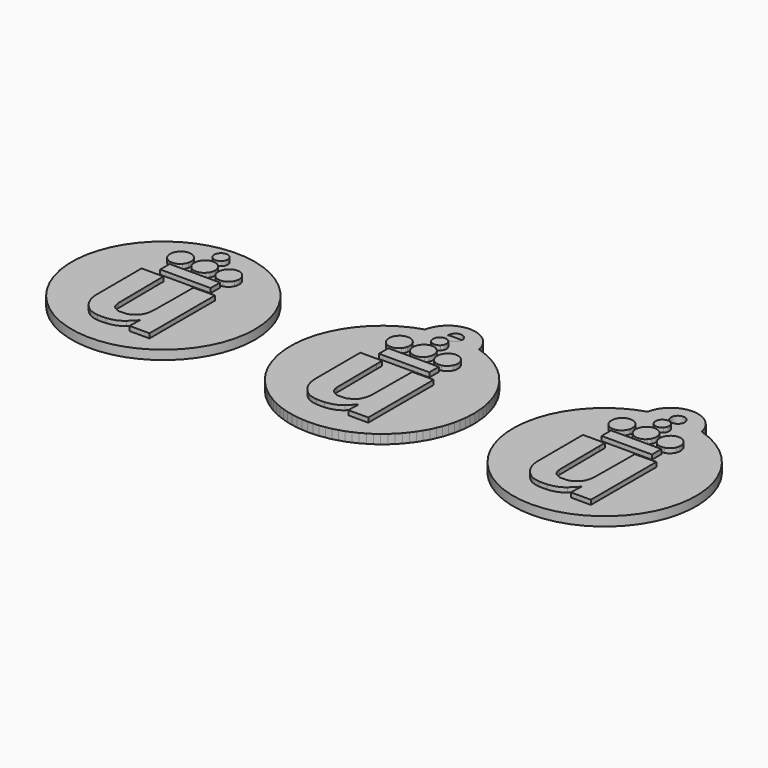
from build123d import *

# Parameters (mm, degrees)
EXTRUDE001_DEPTH  = 1
EXTRUDE_DEPTH     = 1
EXTRUDE002_DEPTH  = 1
EXTRUDE003_DEPTH  = 1
EXTRUDE004_DEPTH  = 1
EXTRUDE005_DEPTH  = 1
CYLINDER_R        = 20
CYLINDER_DEPTH    = 2
CYLINDER001_R     = 1.5
CYLINDER001_DEPTH = 10
CYLINDER002_R     = 6
CYLINDER002_DEPTH = 2


with BuildPart() as letter_u:
    # path4159 → Extrude001 (new body)
    with BuildSketch(Plane(origin=(0.035342, -5.02717, 2), x_dir=(0, -1, 0), z_dir=(0, 0, -1))):
        with BuildLine():
            add(Edge.make_bspline(
                [(9.021922, 3.17561), (8.947974, 3.86656), (8.762365, 4.544102), (8.512805, 5.034102)],
                knots=[0, 0, 0, 0, 1, 1, 1, 1], degree=3))
            add(Edge.make_bspline(
                [(8.512805, 5.034102), (8.092564, 5.859241), (6.965425, 6.898745), (5.985857, 7.364589)],
                knots=[0, 0, 0, 0, 1, 1, 1, 1], degree=3))
            add(Edge.make_bspline(
                [(5.985857, 7.364589), (5.21882, 7.729361), (4.558242, 7.892728), (3.522088, 7.973904)],
                knots=[0, 0, 0, 0, 1, 1, 1, 1], degree=3))
            add(Edge.make_bspline(
                [(3.522088, 7.973904), (3.20079, 7.99905), (0.947657, 8.012323), (-3.013075, 8.012323)],
                knots=[0, 0, 0, 0, 1, 1, 1, 1], degree=3))
            add(Edge.make_bspline(
                [(-3.013075, 8.012323), (-9.057877, 8.012323)],
                knots=[0, 0, 21.41859, 21.41859], degree=1))
            add(Edge.make_bspline(
                [(-9.057877, 8.012323), (-9.057877, 5.623004)],
                knots=[0, 0, 8.46609, 8.46609], degree=1))
            add(Edge.make_bspline(
                [(-9.057877, 5.623004), (-9.057877, 3.233688)],
                knots=[0, 0, 8.46608, 8.46608], degree=1))
            add(Edge.make_bspline(
                [(-9.057877, 3.233688), (-7.53574, 3.230697)],
                knots=[0, 0, 5.39341, 5.39341], degree=1))
            add(Edge.make_bspline(
                [(-7.53574, 3.230697), (-3.068566, 3.222089), (3.025022, 3.163912), (3.386627, 3.126399)],
                knots=[0, 0, 0, 0, 1, 1, 1, 1], degree=3))
            add(Edge.make_bspline(
                [(3.386627, 3.126399), (4.0522, 3.057342), (4.609028, 2.887867), (4.856658, 2.67898)],
                knots=[0, 0, 0, 0, 1, 1, 1, 1], degree=3))
            add(Edge.make_bspline(
                [(4.856658, 2.67898), (5.089551, 2.482523), (5.370593, 2.047344), (5.537381, 1.624903)],
                knots=[0, 0, 0, 0, 1, 1, 1, 1], degree=3))
            add(Edge.make_bspline(
                [(5.537381, 1.624903), (5.689535, 1.239534)],
                knots=[0, 0, 1.468059, 1.468059], degree=1))
            add(Edge.make_bspline(
                [(5.689535, 1.239534), (5.685725, 0.431117)],
                knots=[0, 0, 2.864502, 2.864502], degree=1))
            add(Edge.make_bspline(
                [(5.685725, 0.431117), (5.681238, -0.517531), (5.655194, -0.653638), (5.374959, -1.191268)],
                knots=[0, 0, 0, 0, 1, 1, 1, 1], degree=3))
            add(Edge.make_bspline(
                [(5.374959, -1.191268), (4.902019, -2.098633), (4.491445, -2.514676), (3.757241, -2.830545)],
                knots=[0, 0, 0, 0, 1, 1, 1, 1], degree=3))
            add(Edge.make_bspline(
                [(3.757241, -2.830545), (3.068012, -3.127059), (2.634567, -3.217585), (1.660881, -3.26837)],
                knots=[0, 0, 0, 0, 1, 1, 1, 1], degree=3))
            add(Edge.make_bspline(
                [(1.660881, -3.26837), (1.309971, -3.286658), (-1.232182, -3.311153), (-3.988348, -3.322766)],
                knots=[0, 0, 0, 0, 1, 1, 1, 1], degree=3))
            add(Edge.make_bspline(
                [(-3.988348, -3.322766), (-6.744507, -3.334365), (-9.002714, -3.347404), (-9.006581, -3.351663)],
                knots=[0, 0, 0, 0, 1, 1, 1, 1], degree=3))
            add(Edge.make_bspline(
                [(-9.006581, -3.351663), (-9.010419, -3.355896), (-9.025687, -4.406338), (-9.040399, -5.68588)],
                knots=[0, 0, 0, 0, 1, 1, 1, 1], degree=3))
            add(Edge.make_bspline(
                [(-9.040399, -5.68588), (-9.067182, -8.012323)],
                knots=[0, 0, 8.243846, 8.243846], degree=1))
            add(Edge.make_bspline(
                [(-9.067182, -8.012323), (-0.130223, -8.012323)],
                knots=[0, 0, 31.66639, 31.66639], degree=1))
            add(Edge.make_bspline(
                [(-0.130223, -8.012323), (8.806733, -8.012323)],
                knots=[0, 0, 31.66638, 31.66638], degree=1))
            add(Edge.make_bspline(
                [(8.806733, -8.012323), (8.806733, -5.833734)],
                knots=[0, 0, 7.71941, 7.71941], degree=1))
            add(Edge.make_bspline(
                [(8.806733, -5.833734), (8.806733, -3.655145)],
                knots=[0, 0, 7.71941, 7.71941], degree=1))
            add(Edge.make_bspline(
                [(8.806733, -3.655145), (7.849704, -3.678569)],
                knots=[0, 0, 3.392066, 3.392066], degree=1))
            add(Edge.make_bspline(
                [(7.849704, -3.678569), (7.323337, -3.69141), (6.695796, -3.711109), (6.45517, -3.72226)],
                knots=[0, 0, 0, 0, 1, 1, 1, 1], degree=3))
            add(Edge.make_bspline(
                [(6.45517, -3.72226), (6.017669, -3.74258)],
                knots=[0, 0, 1.551871, 1.551871], degree=1))
            add(Edge.make_bspline(
                [(6.017669, -3.74258), (6.735166, -3.04802)],
                knots=[0, 0, 3.538369, 3.538369], degree=1))
            add(Edge.make_bspline(
                [(6.735166, -3.04802), (7.129786, -2.666018), (7.562582, -2.225836), (7.696925, -2.06984)],
                knots=[0, 0, 0, 0, 1, 1, 1, 1], degree=3))
            add(Edge.make_bspline(
                [(7.696925, -2.06984), (8.50221, -1.134818), (8.879462, -0.15744), (9.022797, 1.365244)],
                knots=[0, 0, 0, 0, 1, 1, 1, 1], degree=3))
            add(Edge.make_bspline(
                [(9.022797, 1.365244), (9.067182, 1.836725), (9.066736, 2.756817), (9.02195, 3.175505)],
                knots=[0, 0, 0, 0, 1, 1, 1, 1], degree=3))
            add(Edge.make_bspline(
                [(9.02195, 3.175505), (9.021922, 3.17561)],
                knots=[0, 0, 0.000383, 0.000383], degree=1))
        make_face()
    extrude(amount=-EXTRUDE001_DEPTH)


with BuildPart() as extrude_body:
    # path4157 → Extrude (new body)
    with BuildSketch(Plane(origin=(0.250893, 7.002065, 2), x_dir=(0, -1, 0), z_dir=(0, 0, -1))):
        with BuildLine():
            add(Edge.make_bspline(
                [(1e-06, 5.497228), (-1.294273, 5.497228)],
                knots=[0, 0, 4.58601, 4.58601], degree=1))
            add(Edge.make_bspline(
                [(-1.294273, 5.497228), (-1.294273, 1e-06)],
                knots=[0, 0, 19.47836, 19.47836], degree=1))
            add(Edge.make_bspline(
                [(-1.294273, 1e-06), (-1.294273, -5.497228)],
                knots=[0, 0, 19.47837, 19.47837], degree=1))
            add(Edge.make_bspline(
                [(-1.294273, -5.497228), (1e-06, -5.497228)],
                knots=[0, 0, 4.58601, 4.58601], degree=1))
            add(Edge.make_bspline(
                [(1e-06, -5.497228), (1.294273, -5.497228)],
                knots=[0, 0, 4.586, 4.586], degree=1))
            add(Edge.make_bspline(
                [(1.294273, -5.497228), (1.294273, 1e-06)],
                knots=[0, 0, 19.47837, 19.47837], degree=1))
            add(Edge.make_bspline(
                [(1.294273, 1e-06), (1.294273, 5.497228)],
                knots=[0, 0, 19.47836, 19.47836], degree=1))
            add(Edge.make_bspline(
                [(1.294273, 5.497228), (1e-06, 5.497228)],
                knots=[0, 0, 4.586, 4.586], degree=1))
        make_face()
    extrude(amount=-EXTRUDE_DEPTH)


with BuildPart() as extrude002:
    # path4155 → Extrude002 (new body)
    with BuildSketch(Plane(origin=(-5.244916, 11.269155, 2), x_dir=(0, -1, 0), z_dir=(0, 0, -1))):
        with BuildLine():
            add(Edge.make_bspline(
                [(2.261414, 0.576288), (2.093328, 1.185707), (1.637097, 1.736501), (1.075747, 2.007699)],
                knots=[0, 0, 0, 0, 1, 1, 1, 1], degree=3))
            add(Edge.make_bspline(
                [(1.075747, 2.007699), (0.62742, 2.224299), (0.377493, 2.276872), (-0.107222, 2.256523)],
                knots=[0, 0, 0, 0, 1, 1, 1, 1], degree=3))
            add(Edge.make_bspline(
                [(-0.107222, 2.256523), (-0.584421, 2.236542), (-0.859677, 2.155172), (-1.243025, 1.920955)],
                knots=[0, 0, 0, 0, 1, 1, 1, 1], degree=3))
            add(Edge.make_bspline(
                [(-1.243025, 1.920955), (-1.730647, 1.623036), (-2.115773, 1.114395), (-2.261163, 0.576288)],
                knots=[0, 0, 0, 0, 1, 1, 1, 1], degree=3))
            add(Edge.make_bspline(
                [(-2.261163, 0.576288), (-2.344376, 0.268313), (-2.344376, -0.265477), (-2.261163, -0.573457)],
                knots=[0, 0, 0, 0, 1, 1, 1, 1], degree=3))
            add(Edge.make_bspline(
                [(-2.261163, -0.573457), (-2.047979, -1.362466), (-1.361508, -2.020653), (-0.556782, -2.20762)],
                knots=[0, 0, 0, 0, 1, 1, 1, 1], degree=3))
            add(Edge.make_bspline(
                [(-0.556782, -2.20762), (-0.259278, -2.276742), (0.27351, -2.276872), (0.54979, -2.207894)],
                knots=[0, 0, 0, 0, 1, 1, 1, 1], degree=3))
            add(Edge.make_bspline(
                [(0.54979, -2.207894), (0.873546, -2.127065), (1.32345, -1.895217), (1.558354, -1.688156)],
                knots=[0, 0, 0, 0, 1, 1, 1, 1], degree=3))
            add(Edge.make_bspline(
                [(1.558354, -1.688156), (1.814574, -1.462296), (2.097801, -1.051846), (2.20708, -0.748006)],
                knots=[0, 0, 0, 0, 1, 1, 1, 1], degree=3))
            add(Edge.make_bspline(
                [(2.20708, -0.748006), (2.314655, -0.448913), (2.344376, 0.275495), (2.261414, 0.576294)],
                knots=[0, 0, 0, 0, 1, 1, 1, 1], degree=3))
            add(Edge.make_bspline(
                [(2.261414, 0.576294), (2.261414, 0.576288)],
                knots=[0, 0, 2e-05, 2e-05], degree=1))
        make_face()
    extrude(amount=-EXTRUDE002_DEPTH)


with BuildPart() as extrude003:
    # path4153 → Extrude003 (new body)
    with BuildSketch(Plane(origin=(-0.012639, 11.265777, 2), x_dir=(0, -1, 0), z_dir=(0, 0, -1))):
        with BuildLine():
            add(Edge.make_bspline(
                [(2.227855, 0.598779), (2.105681, 1.003097), (1.963845, 1.232826), (1.637532, 1.554866)],
                knots=[0, 0, 0, 0, 1, 1, 1, 1], degree=3))
            add(Edge.make_bspline(
                [(1.637532, 1.554866), (1.280774, 1.906964), (0.901773, 2.108141), (0.419685, 2.201313)],
                knots=[0, 0, 0, 0, 1, 1, 1, 1], degree=3))
            add(Edge.make_bspline(
                [(0.419685, 2.201313), (-0.544482, 2.387659), (-1.564224, 1.924922), (-2.042952, 1.083826)],
                knots=[0, 0, 0, 0, 1, 1, 1, 1], degree=3))
            add(Edge.make_bspline(
                [(-2.042952, 1.083826), (-2.270467, 0.684098), (-2.329987, 0.452464), (-2.329169, -0.029989)],
                knots=[0, 0, 0, 0, 1, 1, 1, 1], degree=3))
            add(Edge.make_bspline(
                [(-2.329169, -0.029989), (-2.328435, -0.400646), (-2.315193, -0.49812), (-2.234158, -0.724682)],
                knots=[0, 0, 0, 0, 1, 1, 1, 1], degree=3))
            add(Edge.make_bspline(
                [(-2.234158, -0.724682), (-1.910398, -1.629735), (-1.139889, -2.217832), (-0.173875, -2.297227)],
                knots=[0, 0, 0, 0, 1, 1, 1, 1], degree=3))
            add(Edge.make_bspline(
                [(-0.173875, -2.297227), (0.211042, -2.32883), (0.634136, -2.243554), (1.035096, -2.053455)],
                knots=[0, 0, 0, 0, 1, 1, 1, 1], degree=3))
            add(Edge.make_bspline(
                [(1.035096, -2.053455), (1.281211, -1.936762), (1.401948, -1.848937), (1.637176, -1.615477)],
                knots=[0, 0, 0, 0, 1, 1, 1, 1], degree=3))
            add(Edge.make_bspline(
                [(1.637176, -1.615477), (1.966961, -1.28817), (2.123425, -1.029657), (2.237691, -0.623294)],
                knots=[0, 0, 0, 0, 1, 1, 1, 1], degree=3))
            add(Edge.make_bspline(
                [(2.237691, -0.623294), (2.341836, -0.252919), (2.337911, 0.234558), (2.227869, 0.598779)],
                knots=[0, 0, 0, 0, 1, 1, 1, 1], degree=3))
            add(Edge.make_bspline(
                [(2.227869, 0.598779), (2.227855, 0.598779)],
                knots=[0, 0, 5e-05, 5e-05], degree=1))
        make_face()
    extrude(amount=-EXTRUDE003_DEPTH)


with BuildPart() as extrude004:
    # path4151 → Extrude004 (new body)
    with BuildSketch(Plane(origin=(5.335475, 11.269765, 2), x_dir=(0, -1, 0), z_dir=(0, 0, -1))):
        with BuildLine():
            add(Edge.make_bspline(
                [(2.259089, 0.607613), (2.109463, 1.216998), (1.666217, 1.762348), (1.073435, 2.066391)],
                knots=[0, 0, 0, 0, 1, 1, 1, 1], degree=3))
            add(Edge.make_bspline(
                [(1.073435, 2.066391), (0.720093, 2.24762), (0.419659, 2.316807), (-0.016896, 2.317473)],
                knots=[0, 0, 0, 0, 1, 1, 1, 1], degree=3))
            add(Edge.make_bspline(
                [(-0.016896, 2.317473), (-0.677447, 2.318602), (-1.240213, 2.082469), (-1.690054, 1.615773)],
                knots=[0, 0, 0, 0, 1, 1, 1, 1], degree=3))
            add(Edge.make_bspline(
                [(-1.690054, 1.615773), (-2.144289, 1.144521), (-2.329337, 0.691941), (-2.328451, 0.05444)],
                knots=[0, 0, 0, 0, 1, 1, 1, 1], degree=3))
            add(Edge.make_bspline(
                [(-2.328451, 0.05444), (-2.327717, -0.380035), (-2.267593, -0.621349), (-2.064084, -1.004353)],
                knots=[0, 0, 0, 0, 1, 1, 1, 1], degree=3))
            add(Edge.make_bspline(
                [(-2.064084, -1.004353), (-1.504337, -2.057801), (-0.107923, -2.512317), (0.988024, -1.99777)],
                knots=[0, 0, 0, 0, 1, 1, 1, 1], degree=3))
            add(Edge.make_bspline(
                [(0.988024, -1.99777), (1.60993, -1.705791), (2.111297, -1.106995), (2.262286, -0.475886)],
                knots=[0, 0, 0, 0, 1, 1, 1, 1], degree=3))
            add(Edge.make_bspline(
                [(2.262286, -0.475886), (2.329337, -0.195617), (2.327793, 0.327792), (2.259295, 0.607613)],
                knots=[0, 0, 0, 0, 1, 1, 1, 1], degree=3))
            add(Edge.make_bspline(
                [(2.259295, 0.607613), (2.259089, 0.607613)],
                knots=[0, 0, 0.00073, 0.00073], degree=1))
        make_face()
    extrude(amount=-EXTRUDE004_DEPTH)


with BuildPart() as obj1:
    # path4147 → Extrude005 (new body)
    with BuildSketch(Plane(origin=(0.079486, 15.753671, 2), x_dir=(0, -1, 0), z_dir=(0, 0, -1))):
        with BuildLine():
            add(Edge.make_bspline(
                [(1.421826, 0.46632), (1.306388, 0.888799), (1.014726, 1.239821), (0.621386, 1.429669)],
                knots=[0, 0, 0, 0, 1, 1, 1, 1], degree=3))
            add(Edge.make_bspline(
                [(0.621386, 1.429669), (0.421595, 1.526096), (0.36946, 1.535246), (0.019824, 1.535246)],
                knots=[0, 0, 0, 0, 1, 1, 1, 1], degree=3))
            add(Edge.make_bspline(
                [(0.019824, 1.535246), (-0.332418, 1.535246), (-0.381914, 1.526412), (-0.599969, 1.424352)],
                knots=[0, 0, 0, 0, 1, 1, 1, 1], degree=3))
            add(Edge.make_bspline(
                [(-0.599969, 1.424352), (-1.196709, 1.145099), (-1.538424, 0.508453), (-1.436656, -0.134472)],
                knots=[0, 0, 0, 0, 1, 1, 1, 1], degree=3))
            add(Edge.make_bspline(
                [(-1.436656, -0.134472), (-1.248636, -1.3223), (0.190382, -1.796628), (1.034379, -0.948973)],
                knots=[0, 0, 0, 0, 1, 1, 1, 1], degree=3))
            add(Edge.make_bspline(
                [(1.034379, -0.948973), (1.42004, -0.561637), (1.561506, -0.044886), (1.421826, 0.46632)],
                knots=[0, 0, 0, 0, 1, 1, 1, 1], degree=3))
        make_face()
    extrude(amount=-EXTRUDE005_DEPTH)

    # Fusion: union letter-u, Extrude body, Extrude002, Extrude003, Extrude004
    add(letter_u.part)
    add(extrude_body.part)
    add(extrude002.part)
    add(extrude003.part)
    add(extrude004.part)


with BuildPart() as obj2:
    # Clone base: copy of obj1
    add(obj1.part)


with BuildPart() as coin_body1:
    # Cylinder → Cylinder (new body)
    with BuildSketch(Plane.XY):
        Circle(CYLINDER_R)
    extrude(amount=CYLINDER_DEPTH)


with BuildPart() as obj3:
    # Fusion002 base: copy of coin-body1
    add(coin_body1.part)

    # Fusion002: union obj2
    add(obj2.part)


with BuildPart() as obj4:
    # Clone002 base: copy of obj3
    add(obj3.part)


with BuildPart() as obj4_1:
    # Clone002 placement: moved
    add(obj4.part.moved(Location((-47.85018, 0.080897, 0.605867))))


with BuildPart() as obj5:
    # Clone003 base: copy of obj1
    add(obj1.part)


with BuildPart() as cylinder:
    # Cylinder001 → Cylinder001 (new body)
    with BuildSketch(Plane(origin=(0, 20, -3), x_dir=(1, 0, 0), z_dir=(0, 0, 1))):
        Circle(CYLINDER001_R)
    extrude(amount=CYLINDER001_DEPTH)


with BuildPart() as coin_body001:
    # Clone001 base: copy of coin-body1
    add(coin_body1.part)


with BuildPart() as obj6:
    # Cylinder002 → Cylinder002 (new body)
    with BuildSketch(Plane(origin=(0, 18, 0), x_dir=(1, 0, 0), z_dir=(0, 0, 1))):
        Circle(CYLINDER002_R)
    extrude(amount=CYLINDER002_DEPTH)

    # Fusion001: union coin-body001
    add(coin_body001.part)

    # Cut: cut Cylinder
    add(cylinder.part, mode=Mode.SUBTRACT)

    # Fusion003: union obj5
    add(obj5.part)


with BuildPart() as obj7:
    # Clone004 base: copy of obj6
    add(obj6.part)


with BuildPart() as obj7_1:
    # Clone004 placement: moved
    add(obj7.part.moved(Location((48.627899, 0, 0))))


solid = Compound([obj1.part, obj3.part, obj4_1.part, obj6.part, obj7_1.part])
